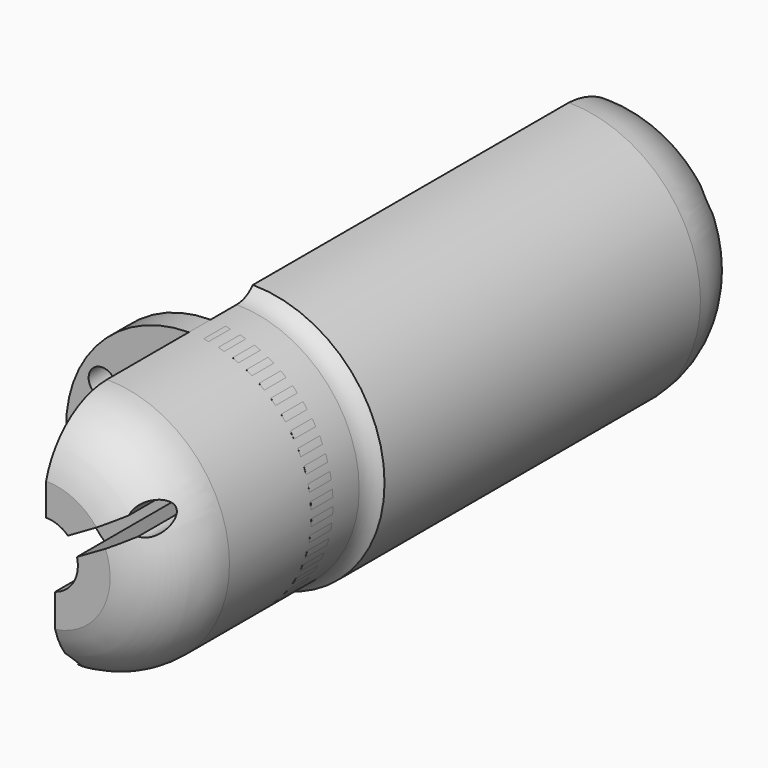
from build123d import *

# Parameters (mm, degrees)
F4_ANGLE  = 180
F6_DEPTH  = 90
F8_COUNT  = 3
F12_START = -20
F11_R     = 13.4913344195
F12_DEPTH = 3


with BuildPart() as f4:
    # F3 (on Right) → F4 (revolve)
    with BuildSketch(Plane.YZ):
        with BuildLine():
            Line((0.3716222048, 20.884835436), (81.3056033368, 20.884835436))
            ThreePointArc((81.3056033368, 20.884835436), (79.2480851868, 28.3977219469), (72.2783456923, 31.8761664331))
            Line((72.2783456923, 31.8761664331), (28.8201148927, 31.8761664331))
            ThreePointArc((28.8201148927, 31.8761664331), (27.8087917866, 31.1375536456), (26.5840469152, 30.8761664331))
            Line((26.5840469152, 30.8761664331), (8.8330505692, 30.8761664331))
            Line((8.8330505692, 30.8761664331), (8.7405150061, 30.8761664331))
            ThreePointArc((8.7405150061, 30.8761664331), (3.470465515, 29.0675325384), (0.3716222048, 24.4370089889))
            Line((0.3716222048, 24.4370089889), (0.3716222048, 20.884835436))
        make_face()
    revolve(axis=Axis((0, 40.3716222048, 17.384835436), (0, 1, 0)), revolution_arc=F4_ANGLE)


with BuildPart() as f6:
    # F5 (on Front) → F6 (new body)
    with BuildSketch(Plane.XZ):
        with BuildLine():
            ThreePointArc((1, 14.0307334698), (0, 13.884835436), (-1, 14.0307334698))
            Line((-1, 14.0307334698), (-1, 7.5353520725))
            ThreePointArc((-1, 7.5353520725), (0, 4.893504439), (1, 7.5353520725))
            Line((1, 7.5353520725), (1, 14.0307334698))
        make_face()
    extrude(amount=-F6_DEPTH)


with BuildPart() as f8_1:
    # F8: instance of F6
    add(f6.part.rotate(Axis((0, 20.536005497, 17.384835436), (0, 1, 0)), 1 * 360 / F8_COUNT))


with BuildPart() as f8_2:
    # F8: instance of F6
    add(f6.part.rotate(Axis((0, 20.536005497, 17.384835436), (0, 1, 0)), 2 * 360 / F8_COUNT))


with BuildPart() as f4_1:
    add(f4.part)

    # F9: cut F6, F8_2
    add(f6.part, mode=Mode.SUBTRACT)
    add(f8_2.part, mode=Mode.SUBTRACT)


with BuildPart() as f10:
    # F3 (on Right) → F10 (revolve)
    with BuildSketch(Plane.YZ):
        with BuildLine():
            Line((0.3716222048, 20.884835436), (81.3056033368, 20.884835436))
            ThreePointArc((81.3056033368, 20.884835436), (79.2480851868, 28.3977219469), (72.2783456923, 31.8761664331))
            Line((72.2783456923, 31.8761664331), (28.8201148927, 31.8761664331))
            ThreePointArc((28.8201148927, 31.8761664331), (27.8087917866, 31.1375536456), (26.5840469152, 30.8761664331))
            Line((26.5840469152, 30.8761664331), (8.8330505692, 30.8761664331))
            Line((8.8330505692, 30.8761664331), (8.7405150061, 30.8761664331))
            ThreePointArc((8.7405150061, 30.8761664331), (3.470465515, 29.0675325384), (0.3716222048, 24.4370089889))
            Line((0.3716222048, 24.4370089889), (0.3716222048, 20.884835436))
        make_face()
    revolve(axis=Axis((0, 40.3716222048, 17.384835436), (0, 1, 0)))

    # F13: cut F6, F8_2, F8_1
    add(f6.part, mode=Mode.SUBTRACT)
    add(f8_2.part, mode=Mode.SUBTRACT)
    add(f8_1.part, mode=Mode.SUBTRACT)


with BuildPart() as f12:
    # F11 (on Front) → F12 (new body)
    with BuildSketch(Plane.XZ.offset(F12_START)):
        with Locations((0, 17.384835436)):
            Circle(F11_R)
    extrude(amount=-F12_DEPTH)


with BuildPart() as f10_1:
    add(f10.part)

    # F14: intersect F12
    add(f12.part, mode=Mode.INTERSECT)


solid = Compound([f4_1.part, f10_1.part])
